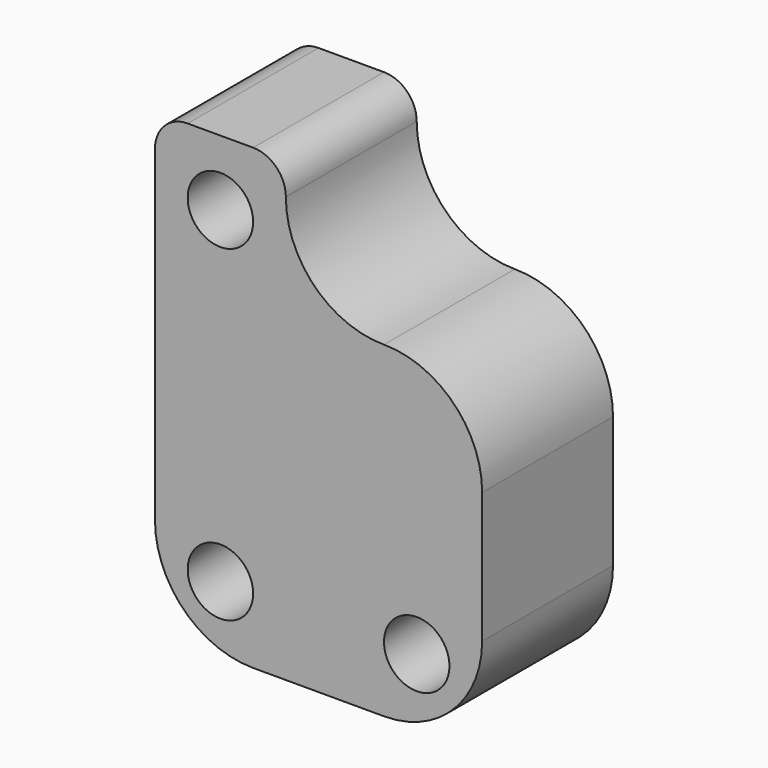
from build123d import *

# Parameters (mm, degrees)
F0_R     = 5
F1_DEPTH = 25


with BuildPart() as f1:
    # F0 (on Front) → F1 (new body)
    with BuildSketch(Plane.XZ):
        with BuildLine():
            ThreePointArc((0, 15), (4.393398, 4.393398), (15, 0))
            Line((15, 0), (35, 0))
            ThreePointArc((35, 0), (45.606602, 4.393398), (50, 15))
            Line((50, 15), (50, 35))
            ThreePointArc((50, 35), (45.606602, 45.606602), (35, 50))
            ThreePointArc((35, 50), (24.393398, 54.393398), (20, 65))
            ThreePointArc((20, 65), (18.535534, 68.535534), (15, 70))
            Line((15, 70), (5, 70))
            ThreePointArc((5, 70), (1.464466, 68.535534), (0, 65))
            Line((0, 65), (0, 15))
        make_face()
        with Locations((10, 10)):
            Circle(F0_R, mode=Mode.SUBTRACT)
        with Locations((40, 10)):
            Circle(F0_R, mode=Mode.SUBTRACT)
        with Locations((10, 60)):
            Circle(F0_R, mode=Mode.SUBTRACT)
    extrude(amount=F1_DEPTH)


solid = f1.part
